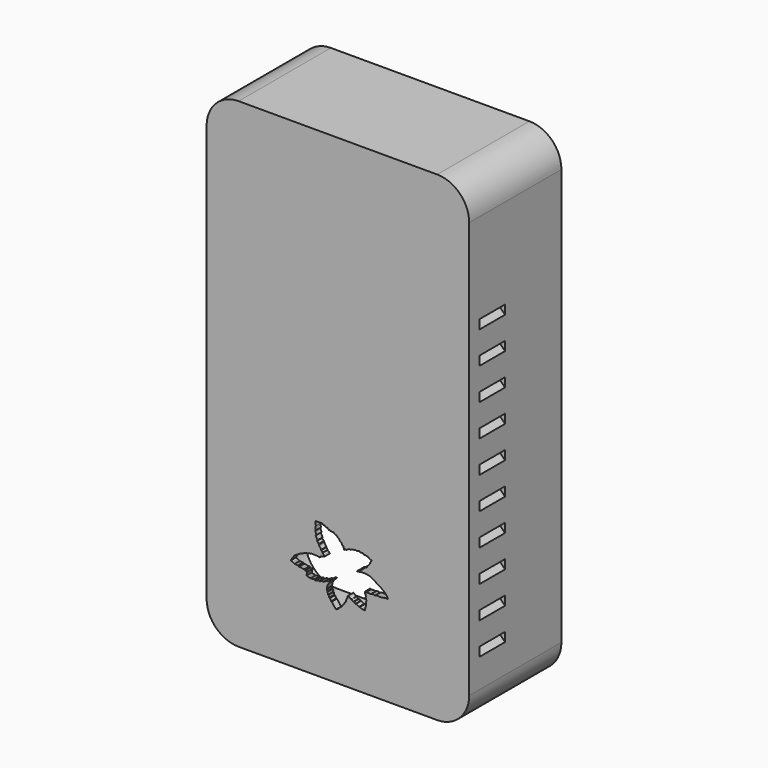
from build123d import *

# Parameters (mm, degrees)
BOX067_W                    = 35
BOX067_H                    = 1.8
BOX067_DEPTH                = 30
PAD_DEPTH                   = 3
BODY_PLACEMENT_ANGLE        = 90
BOX057_W                    = 20
BOX057_H                    = 10
BOX057_DEPTH                = 2
BOX057_PLACEMENT_ANGLE      = 45
BOX058_W                    = 20
BOX058_H                    = 10
BOX058_DEPTH                = 2
BOX058_PLACEMENT_ANGLE      = 45
BOX059_W                    = 20
BOX059_H                    = 10
BOX059_DEPTH                = 2
BOX059_PLACEMENT_ANGLE      = 45
BOX060_W                    = 10
BOX060_H                    = 10
BOX060_DEPTH                = 2
BOX060_PLACEMENT_ANGLE      = 45
BOX061_W                    = 20
BOX061_H                    = 10
BOX061_DEPTH                = 2
BOX061_PLACEMENT_ANGLE      = 45
BOX062_W                    = 20
BOX062_H                    = 10
BOX062_DEPTH                = 2
BOX062_PLACEMENT_ANGLE      = 45
BOX063_W                    = 20
BOX063_H                    = 10
BOX063_DEPTH                = 2
BOX063_PLACEMENT_ANGLE      = 45
BOX064_W                    = 10
BOX064_H                    = 10
BOX064_DEPTH                = 2
BOX064_PLACEMENT_ANGLE      = 45
BOX065_W                    = 20
BOX065_H                    = 10
BOX065_DEPTH                = 2
BOX065_PLACEMENT_ANGLE      = 45
BOX066_W                    = 20
BOX066_H                    = 10
BOX066_DEPTH                = 2
BOX066_PLACEMENT_ANGLE      = 45
BOX056_W                    = 20
BOX056_H                    = 10
BOX056_DEPTH                = 2
BOX056_PLACEMENT_ANGLE      = 45
FUSION037_PLACEMENT_ANGLE   = 180
BOX046_W                    = 20
BOX046_H                    = 10
BOX046_DEPTH                = 2
BOX046_PLACEMENT_ANGLE      = 45
BOX047_W                    = 20
BOX047_H                    = 10
BOX047_DEPTH                = 2
BOX047_PLACEMENT_ANGLE      = 45
BOX048_W                    = 20
BOX048_H                    = 10
BOX048_DEPTH                = 2
BOX048_PLACEMENT_ANGLE      = 45
BOX049_W                    = 10
BOX049_H                    = 10
BOX049_DEPTH                = 2
BOX049_PLACEMENT_ANGLE      = 45
BOX050_W                    = 20
BOX050_H                    = 10
BOX050_DEPTH                = 2
BOX050_PLACEMENT_ANGLE      = 45
BOX051_W                    = 20
BOX051_H                    = 10
BOX051_DEPTH                = 2
BOX051_PLACEMENT_ANGLE      = 45
BOX052_W                    = 20
BOX052_H                    = 10
BOX052_DEPTH                = 2
BOX052_PLACEMENT_ANGLE      = 45
BOX053_W                    = 20
BOX053_H                    = 10
BOX053_DEPTH                = 2
BOX053_PLACEMENT_ANGLE      = 45
BOX054_W                    = 20
BOX054_H                    = 10
BOX054_DEPTH                = 2
BOX054_PLACEMENT_ANGLE      = 45
BOX055_W                    = 20
BOX055_H                    = 10
BOX055_DEPTH                = 2
BOX055_PLACEMENT_ANGLE      = 45
BOX045_W                    = 20
BOX045_H                    = 10
BOX045_DEPTH                = 2
BOX045_PLACEMENT_ANGLE      = 45
BOX043_W                    = 5
BOX043_H                    = 5
BOX043_DEPTH                = 5
CYLINDER081_R               = 1.6
CYLINDER081_DEPTH           = 12
CYLINDER080_R               = 3.5
CYLINDER080_DEPTH           = 12
CYLINDER075_R               = 2.8
CYLINDER075_DEPTH           = 10
CYLINDER074_R               = 5.5
CYLINDER074_DEPTH           = 22
CYLINDER074_ROLL_ANGLE      = 90.312904
CYLINDER074_PITCH_ANGLE     = -60.355913
CYLINDER074_PLACEMENT_ANGLE = 179.461903
CYLINDER077_R               = 2.8
CYLINDER077_DEPTH           = 10
CYLINDER076_R               = 5.5
CYLINDER076_DEPTH           = 22
CYLINDER076_ROLL_ANGLE      = 90
CYLINDER076_PITCH_ANGLE     = -60
CYLINDER076_PLACEMENT_ANGLE = -180
CYLINDER079_R               = 2.8
CYLINDER079_DEPTH           = 10
CYLINDER078_R               = 5.5
CYLINDER078_DEPTH           = 22
CYLINDER078_ROLL_ANGLE      = 90
CYLINDER078_PITCH_ANGLE     = -60
CYLINDER078_PLACEMENT_ANGLE = -180
CYLINDER054_R               = 1.6
CYLINDER054_DEPTH           = 12
CYLINDER055_R               = 1.6
CYLINDER055_DEPTH           = 12
CYLINDER056_R               = 1.6
CYLINDER056_DEPTH           = 12
CYLINDER057_R               = 1.6
CYLINDER057_DEPTH           = 12
CYLINDER058_R               = 1.6
CYLINDER058_DEPTH           = 12
CYLINDER059_R               = 1.6
CYLINDER059_DEPTH           = 12
CYLINDER060_R               = 1.6
CYLINDER060_DEPTH           = 12
CYLINDER061_R               = 1.6
CYLINDER061_DEPTH           = 12
CYLINDER062_R               = 3.5
CYLINDER062_DEPTH           = 12
CYLINDER063_R               = 3.5
CYLINDER063_DEPTH           = 12
CYLINDER064_R               = 3.5
CYLINDER064_DEPTH           = 12
CYLINDER065_R               = 3.5
CYLINDER065_DEPTH           = 12
CYLINDER066_R               = 3.5
CYLINDER066_DEPTH           = 12
CYLINDER067_R               = 3.5
CYLINDER067_DEPTH           = 12
CYLINDER068_R               = 3.5
CYLINDER068_DEPTH           = 12
CYLINDER051_R               = 1.57
CYLINDER051_DEPTH           = 6
CYLINDER050_R               = 5.3
CYLINDER050_DEPTH           = 6
CYLINDER052_W               = 5.3
CYLINDER052_H               = 6
CYLINDER052_ANGLE           = 270
CYLINDER053_W               = 5.3
CYLINDER053_H               = 6
CYLINDER053_ANGLE           = 270
CYLINDER045_W               = 10
CYLINDER045_H               = 34
CYLINDER045_ANGLE           = 90
BOX035_W                    = 10
BOX035_H                    = 34
BOX035_DEPTH                = 10
CUT031_PLACEMENT_ANGLE      = 180
CYLINDER046_W               = 10
CYLINDER046_H               = 34
CYLINDER046_ANGLE           = 90
BOX036_W                    = 10
BOX036_H                    = 34
BOX036_DEPTH                = 10
CUT032_PLACEMENT_ANGLE      = 180
CYLINDER047_W               = 10
CYLINDER047_H               = 34
CYLINDER047_ANGLE           = 90
BOX037_W                    = 10
BOX037_H                    = 34
BOX037_DEPTH                = 10
CUT033_PITCH_ANGLE          = -90
CUT033_PLACEMENT_ANGLE      = -180
CYLINDER044_W               = 10
CYLINDER044_H               = 34
CYLINDER044_ANGLE           = 90
BOX033_W                    = 10
BOX033_H                    = 34
BOX033_DEPTH                = 10
CUT030_PITCH_ANGLE          = 90
CUT030_PLACEMENT_ANGLE      = -180
BOX034_W                    = 78
BOX034_H                    = 34
BOX034_DEPTH                = 146
CYLINDER041_W               = 10
CYLINDER041_H               = 36
CYLINDER041_ANGLE           = 90
BOX030_W                    = 10
BOX030_H                    = 36
BOX030_DEPTH                = 10
CUT026_PLACEMENT_ANGLE      = 180
CYLINDER042_W               = 10
CYLINDER042_H               = 36
CYLINDER042_ANGLE           = 90
BOX031_W                    = 10
BOX031_H                    = 36
BOX031_DEPTH                = 10
CUT027_PLACEMENT_ANGLE      = 180
CYLINDER043_W               = 10
CYLINDER043_H               = 36
CYLINDER043_ANGLE           = 90
BOX032_W                    = 10
BOX032_H                    = 36
BOX032_DEPTH                = 10
CUT028_PITCH_ANGLE          = -90
CUT028_PLACEMENT_ANGLE      = -180
CYLINDER040_W               = 10
CYLINDER040_H               = 36
CYLINDER040_ANGLE           = 90
BOX028_W                    = 10
BOX028_H                    = 36
BOX028_DEPTH                = 10
CUT025_PITCH_ANGLE          = 90
CUT025_PLACEMENT_ANGLE      = -180
BOX029_W                    = 82
BOX029_H                    = 36
BOX029_DEPTH                = 150
CUT035_PLACEMENT_ANGLE      = 180
CYLINDER048_R               = 1.57
CYLINDER048_DEPTH           = 6
CYLINDER049_R               = 5.3
CYLINDER049_DEPTH           = 6
CYLINDER069_R               = 3.5
CYLINDER069_DEPTH           = 12
CYLINDER073_R               = 2.8
CYLINDER073_DEPTH           = 10
CYLINDER072_R               = 5.5
CYLINDER072_DEPTH           = 22
CYLINDER072_ROLL_ANGLE      = 90
CYLINDER072_PITCH_ANGLE     = -60
CYLINDER072_PLACEMENT_ANGLE = -180


with BuildPart() as logobase:
    # Box067 → Box067 (new body)
    with BuildSketch(Plane(origin=(21.5, -44, 15.25), x_dir=(1, 0, 0), z_dir=(0, 0, 1))):
        with Locations((17.5, 0.9)):
            Rectangle(BOX067_W, BOX067_H)
    extrude(amount=BOX067_DEPTH)


with BuildPart() as logo001:
    # Sketch → Pad (new body)
    with BuildSketch(Plane.XY):
        Polygon((-15.066747, -2.987899), (-14.417461, -3.201938), (-14.138643, -3.358095), (-13.867326, -3.550643), (-13.410691, -3.571363), (-13.132099, -3.616994), (-12.816981, -3.623429), (-12.466181, -3.85302), (-11.870388, -3.85302), (-11.520385, -4.008358), (-11.138921, -4.05555), (-10.80982, -4.007881), (-10.571555, -4.299093), (-10.133842, -4.331365), (-9.89036, -4.3898), (-9.995555, -4.876968), (-10.089424, -5.363912), (-10.107024, -5.504714), (-9.778484, -5.639651), (-9.516561, -5.730218), (-9.249311, -5.762288), (-8.928614, -5.901257), (-8.543776, -5.863842), (-7.717882, -5.75845), (-7.372913, -5.972569), (-6.724874, -5.720376), (-6.270657, -5.694814), (-6.062229, -5.804927), (-5.350893, -5.48914), (-5.024015, -5.48914), (-4.801264, -5.531317), (-4.197354, -5.162479), (-3.751908, -4.972515), (-3.377141, -4.972515), (-2.818976, -4.454219), (-2.627606, -4.342587), (-2.151123, -4.357646), (-2.380419, -4.518009), (-3.185771, -5.42702), (-3.613178, -6.058241), (-3.711104, -6.645795), (-3.835143, -7.155008), (-3.758777, -7.508761), (-3.705962, -7.68135), (-3.53967, -7.852018), (-3.468499, -8.65617), (-3.272681, -8.566711), (-3.168228, -8.769092), (-3.070875, -9.320832), (-2.842071, -9.3355), (-2.45193, -10.098182), (-2.249525, -10.130449), (-0.96042, -11.875302), (-0.153326, -11.388908), (0.461347, -10.768889), (0.669802, -10.72613), (1.317242, -9.709977), (1.518256, -9.650808), (1.740221, -9.089367), (2.020942, -9.043669), (2.393061, -7.803274), (2.588394, -7.698711), (2.654196, -7.039452), (2.869633, -6.817487), (3.091598, -6.928469), (3.796664, -7.57478), (3.933761, -7.502968), (4.462561, -7.973012), (4.684525, -7.920785), (5.115399, -8.34513), (5.324308, -8.286375), (6.23668, -8.795643), (6.503619, -8.766309), (7.148016, -9.05537), (8.048827, -9.186133), (8.36847, -7.936621), (8.499233, -7.791329), (8.434769, -6.722055), (8.586207, -6.479883), (8.322964, -5.531781), (8.439835, -5.190909), (8.074257, -4.393068), (8.042361, -4.177775), (8.090203, -3.994378), (8.410305, -4.111031), (8.720134, -4.050195), (9.318169, -4.050195), (9.829643, -4.158874), (10.132648, -3.967503), (10.517489, -3.962302), (10.88308, -3.975359), (11.224485, -4.094309), (11.686072, -3.910075), (12.103889, -3.883962), (12.600047, -3.962302), (13.579306, -3.877433), (14.388827, -3.746865), (14.754416, -3.681581), (15.276689, -3.753394), (15.04319, -3.241373), (14.520919, -2.516721), (14.037817, -1.994449), (13.280153, -1.546255), (13.043842, -1.231174), (12.107354, -0.797939), (11.380431, -0.250878), (10.439567, 0.304889), (9.595256, 0.727998), (8.536237, 0.97306), (7.198999, 0.97306), (5.779317, 0.795578), (5.601857, 0.795578), (5.831776, 0.981815), (6.254031, 1.158201), (6.302136, 1.382691), (7.179873, 1.706855), (7.446816, 1.794377), (7.490577, 2.126962), (8.300576, 2.668386), (8.685751, 2.818538), (8.685751, 3.125373), (8.89508, 3.18684), (9.634921, 4.066021), (9.626381, 4.327431), (10.206841, 5.183136), (9.255181, 5.644445), (9.110202, 5.875968), (8.321324, 5.973361), (8.154661, 6.066253), (7.828613, 6.044872), (7.634715, 6.130877), (7.563913, 6.332674), (6.748318, 6.354958), (6.468188, 6.295259), (6.270422, 6.610614), (5.404532, 6.332674), (5.270907, 6.471644), (4.569418, 6.247245), (4.441608, 6.406517), (3.419502, 5.945882), (3.291921, 6.153201), (2.15964, 5.491375), (2.000163, 5.698694), (1.618501, 5.348278), (1.459844, 5.949736), (1.381651, 6.286506), (1.14534, 6.299634), (0.824344, 6.914785), (0.348522, 7.295443), (0.126706, 7.681261), (-0.415308, 8.181635), (-0.872658, 8.623701), (-1.120738, 8.643287), (-1.793164, 9.119861), (-2.314879, 9.121219), (-2.713213, 9.138457), (-2.884254, 9.341568), (-3.167788, 9.264536), (-3.707386, 9.827964), (-4.049155, 9.7003), (-4.429878, 10.011006), (-4.979099, 10.142511), (-5.430383, 10.448871), (-5.989475, 10.365602), (-7.326053, 10.410839), (-7.252544, 9.132535), (-7.368778, 8.769302), (-7.261404, 7.837619), (-7.411118, 7.604196), (-7.092165, 6.743021), (-7.100138, 6.559623), (-7.29151, 6.384199), (-6.741315, 5.299757), (-6.87495, 5.027319), (-6.315858, 4.420645), (-6.303963, 4.194629), (-6.054155, 4.0043), (-6.185007, 3.956717), (-5.542647, 3.076445), (-5.578333, 2.909907), (-5.126302, 2.410293), (-5.185779, 2.267546), (-4.733747, 1.898783), (-4.424462, 1.589498), (-5.31663, 1.292109), (-5.840036, 1.089884), (-6.04226, 0.792495), (-6.946324, 0.994719), (-7.196131, 0.887659), (-7.814701, 1.042302), (-8.02502, 0.969153), (-8.602671, 1.030419), (-8.834605, 0.872878), (-9.333486, 0.929767), (-9.661695, 0.649695), (-10.324935, 0.649695), (-11.010686, 0.32425), (-11.728333, 0.053139), (-12.297134, -0.13161), (-12.421175, -0.347049), (-13.295985, -0.817096), (-13.922715, -1.241445), (-14.170795, -1.59398), (-14.53862, -2.09216), (-14.783051, -2.457701), align=None)
    extrude(amount=PAD_DEPTH)


with BuildPart() as logo001_1:
    # Body placement: moved
    add(logo001.part.moved(Location((39.35, -43, 30))).rotate(Axis((39.35, -43, 30), (1, 0, 0)), BODY_PLACEMENT_ANGLE))

    # Fusion039: union logoBase
    add(logobase.part)


with BuildPart() as cube048:
    # Box057 → Box057 (new body)
    with BuildSketch(Plane.XY):
        with Locations((10, 5)):
            Rectangle(BOX057_W, BOX057_H)
    extrude(amount=BOX057_DEPTH)


with BuildPart() as cube048_1:
    # Box057 placement: moved
    add(cube048.part.moved(Location((0, 0, 10))).rotate(Axis((0, 0, 10), (0, -1, 0)), BOX057_PLACEMENT_ANGLE))


with BuildPart() as cube049:
    # Box058 → Box058 (new body)
    with BuildSketch(Plane.XY):
        with Locations((10, 5)):
            Rectangle(BOX058_W, BOX058_H)
    extrude(amount=BOX058_DEPTH)


with BuildPart() as cube049_1:
    # Box058 placement: moved
    add(cube049.part.moved(Location((0, 0, 20))).rotate(Axis((0, 0, 20), (0, -1, 0)), BOX058_PLACEMENT_ANGLE))


with BuildPart() as cube050:
    # Box059 → Box059 (new body)
    with BuildSketch(Plane.XY):
        with Locations((10, 5)):
            Rectangle(BOX059_W, BOX059_H)
    extrude(amount=BOX059_DEPTH)


with BuildPart() as cube050_1:
    # Box059 placement: moved
    add(cube050.part.moved(Location((0, 0, 30))).rotate(Axis((0, 0, 30), (0, -1, 0)), BOX059_PLACEMENT_ANGLE))


with BuildPart() as cube051:
    # Box060 → Box060 (new body)
    with BuildSketch(Plane.XY):
        with Locations((5, 5)):
            Rectangle(BOX060_W, BOX060_H)
    extrude(amount=BOX060_DEPTH)


with BuildPart() as cube051_1:
    # Box060 placement: moved
    add(cube051.part.moved(Location((0, 0, 40))).rotate(Axis((0, 0, 40), (0, -1, 0)), BOX060_PLACEMENT_ANGLE))


with BuildPart() as cube052:
    # Box061 → Box061 (new body)
    with BuildSketch(Plane.XY):
        with Locations((10, 5)):
            Rectangle(BOX061_W, BOX061_H)
    extrude(amount=BOX061_DEPTH)


with BuildPart() as cube052_1:
    # Box061 placement: moved
    add(cube052.part.moved(Location((0, 0, 50))).rotate(Axis((0, 0, 50), (0, -1, 0)), BOX061_PLACEMENT_ANGLE))


with BuildPart() as cube053:
    # Box062 → Box062 (new body)
    with BuildSketch(Plane.XY):
        with Locations((10, 5)):
            Rectangle(BOX062_W, BOX062_H)
    extrude(amount=BOX062_DEPTH)


with BuildPart() as cube053_1:
    # Box062 placement: moved
    add(cube053.part.moved(Location((0, 0, 60))).rotate(Axis((0, 0, 60), (0, -1, 0)), BOX062_PLACEMENT_ANGLE))


with BuildPart() as cube054:
    # Box063 → Box063 (new body)
    with BuildSketch(Plane.XY):
        with Locations((10, 5)):
            Rectangle(BOX063_W, BOX063_H)
    extrude(amount=BOX063_DEPTH)


with BuildPart() as cube054_1:
    # Box063 placement: moved
    add(cube054.part.moved(Location((0, 0, 70))).rotate(Axis((0, 0, 70), (0, -1, 0)), BOX063_PLACEMENT_ANGLE))


with BuildPart() as cube055:
    # Box064 → Box064 (new body)
    with BuildSketch(Plane.XY):
        with Locations((5, 5)):
            Rectangle(BOX064_W, BOX064_H)
    extrude(amount=BOX064_DEPTH)


with BuildPart() as cube055_1:
    # Box064 placement: moved
    add(cube055.part.moved(Location((0, 0, 80))).rotate(Axis((0, 0, 80), (0, -1, 0)), BOX064_PLACEMENT_ANGLE))


with BuildPart() as cube056:
    # Box065 → Box065 (new body)
    with BuildSketch(Plane.XY):
        with Locations((10, 5)):
            Rectangle(BOX065_W, BOX065_H)
    extrude(amount=BOX065_DEPTH)


with BuildPart() as cube056_1:
    # Box065 placement: moved
    add(cube056.part.moved(Location((0, 0, 90))).rotate(Axis((0, 0, 90), (0, -1, 0)), BOX065_PLACEMENT_ANGLE))


with BuildPart() as cube057:
    # Box066 → Box066 (new body)
    with BuildSketch(Plane.XY):
        with Locations((10, 5)):
            Rectangle(BOX066_W, BOX066_H)
    extrude(amount=BOX066_DEPTH)


with BuildPart() as cube057_1:
    # Box066 placement: moved
    add(cube057.part.moved(Location((0, 0, 1000))).rotate(Axis((0, 0, 1000), (0, -1, 0)), BOX066_PLACEMENT_ANGLE))


with BuildPart() as fusion037:
    # Box056 → Box056 (new body)
    with BuildSketch(Plane.XY):
        with Locations((10, 5)):
            Rectangle(BOX056_W, BOX056_H)
    extrude(amount=BOX056_DEPTH)


with BuildPart() as fusion037_1:
    # Box056 placement: moved
    add(fusion037.part.rotate(Axis((0, 0, 0), (0, -1, 0)), BOX056_PLACEMENT_ANGLE))

    # Fusion037: union Cube048, Cube049, Cube050, Cube051, Cube052, Cube053, Cube054, Cube055, Cube056, Cube057
    add(cube048_1.part)
    add(cube049_1.part)
    add(cube050_1.part)
    add(cube051_1.part)
    add(cube052_1.part)
    add(cube053_1.part)
    add(cube054_1.part)
    add(cube055_1.part)
    add(cube056_1.part)
    add(cube057_1.part)


with BuildPart() as fusion037_2:
    # Fusion037 placement: moved
    add(fusion037_1.part.moved(Location((82, 0, 15))).rotate(Axis((82, 0, 15), (0, 0, 1)), FUSION037_PLACEMENT_ANGLE))


with BuildPart() as cube037:
    # Box046 → Box046 (new body)
    with BuildSketch(Plane.XY):
        with Locations((10, 5)):
            Rectangle(BOX046_W, BOX046_H)
    extrude(amount=BOX046_DEPTH)


with BuildPart() as cube037_1:
    # Box046 placement: moved
    add(cube037.part.moved(Location((0, 0, 10))).rotate(Axis((0, 0, 10), (0, -1, 0)), BOX046_PLACEMENT_ANGLE))


with BuildPart() as cube038:
    # Box047 → Box047 (new body)
    with BuildSketch(Plane.XY):
        with Locations((10, 5)):
            Rectangle(BOX047_W, BOX047_H)
    extrude(amount=BOX047_DEPTH)


with BuildPart() as cube038_1:
    # Box047 placement: moved
    add(cube038.part.moved(Location((0, 0, 20))).rotate(Axis((0, 0, 20), (0, -1, 0)), BOX047_PLACEMENT_ANGLE))


with BuildPart() as cube039:
    # Box048 → Box048 (new body)
    with BuildSketch(Plane.XY):
        with Locations((10, 5)):
            Rectangle(BOX048_W, BOX048_H)
    extrude(amount=BOX048_DEPTH)


with BuildPart() as cube039_1:
    # Box048 placement: moved
    add(cube039.part.moved(Location((0, 0, 30))).rotate(Axis((0, 0, 30), (0, -1, 0)), BOX048_PLACEMENT_ANGLE))


with BuildPart() as cube040:
    # Box049 → Box049 (new body)
    with BuildSketch(Plane.XY):
        with Locations((5, 5)):
            Rectangle(BOX049_W, BOX049_H)
    extrude(amount=BOX049_DEPTH)


with BuildPart() as cube040_1:
    # Box049 placement: moved
    add(cube040.part.moved(Location((0, 0, 40))).rotate(Axis((0, 0, 40), (0, -1, 0)), BOX049_PLACEMENT_ANGLE))


with BuildPart() as cube041:
    # Box050 → Box050 (new body)
    with BuildSketch(Plane.XY):
        with Locations((10, 5)):
            Rectangle(BOX050_W, BOX050_H)
    extrude(amount=BOX050_DEPTH)


with BuildPart() as cube041_1:
    # Box050 placement: moved
    add(cube041.part.moved(Location((0, 0, 50))).rotate(Axis((0, 0, 50), (0, -1, 0)), BOX050_PLACEMENT_ANGLE))


with BuildPart() as cube042:
    # Box051 → Box051 (new body)
    with BuildSketch(Plane.XY):
        with Locations((10, 5)):
            Rectangle(BOX051_W, BOX051_H)
    extrude(amount=BOX051_DEPTH)


with BuildPart() as cube042_1:
    # Box051 placement: moved
    add(cube042.part.moved(Location((0, 0, 60))).rotate(Axis((0, 0, 60), (0, -1, 0)), BOX051_PLACEMENT_ANGLE))


with BuildPart() as cube043:
    # Box052 → Box052 (new body)
    with BuildSketch(Plane.XY):
        with Locations((10, 5)):
            Rectangle(BOX052_W, BOX052_H)
    extrude(amount=BOX052_DEPTH)


with BuildPart() as cube043_1:
    # Box052 placement: moved
    add(cube043.part.moved(Location((0, 0, 70))).rotate(Axis((0, 0, 70), (0, -1, 0)), BOX052_PLACEMENT_ANGLE))


with BuildPart() as cube044:
    # Box053 → Box053 (new body)
    with BuildSketch(Plane.XY):
        with Locations((10, 5)):
            Rectangle(BOX053_W, BOX053_H)
    extrude(amount=BOX053_DEPTH)


with BuildPart() as cube044_1:
    # Box053 placement: moved
    add(cube044.part.moved(Location((0, 0, 80))).rotate(Axis((0, 0, 80), (0, -1, 0)), BOX053_PLACEMENT_ANGLE))


with BuildPart() as cube045:
    # Box054 → Box054 (new body)
    with BuildSketch(Plane.XY):
        with Locations((10, 5)):
            Rectangle(BOX054_W, BOX054_H)
    extrude(amount=BOX054_DEPTH)


with BuildPart() as cube045_1:
    # Box054 placement: moved
    add(cube045.part.moved(Location((0, 0, 90))).rotate(Axis((0, 0, 90), (0, -1, 0)), BOX054_PLACEMENT_ANGLE))


with BuildPart() as cube046:
    # Box055 → Box055 (new body)
    with BuildSketch(Plane.XY):
        with Locations((10, 5)):
            Rectangle(BOX055_W, BOX055_H)
    extrude(amount=BOX055_DEPTH)


with BuildPart() as cube046_1:
    # Box055 placement: moved
    add(cube046.part.moved(Location((0, 0, 1000))).rotate(Axis((0, 0, 1000), (0, -1, 0)), BOX055_PLACEMENT_ANGLE))


with BuildPart() as vents:
    # Box045 → Box045 (new body)
    with BuildSketch(Plane.XY):
        with Locations((10, 5)):
            Rectangle(BOX045_W, BOX045_H)
    extrude(amount=BOX045_DEPTH)


with BuildPart() as vents_1:
    # Box045 placement: moved
    add(vents.part.rotate(Axis((0, 0, 0), (0, -1, 0)), BOX045_PLACEMENT_ANGLE))

    # Fusion036: union Cube037, Cube038, Cube039, Cube040, Cube041, Cube042, Cube043, Cube044, Cube045, Cube046
    add(cube037_1.part)
    add(cube038_1.part)
    add(cube039_1.part)
    add(cube040_1.part)
    add(cube041_1.part)
    add(cube042_1.part)
    add(cube043_1.part)
    add(cube044_1.part)
    add(cube045_1.part)
    add(cube046_1.part)


with BuildPart() as vents_2:
    # Fusion036 placement: moved
    add(vents_1.part.moved(Location((-4, -10, 15))))

    # Fusion038: union Fusion037
    add(fusion037_2.part)


with BuildPart() as vents_3:
    # Fusion038 placement: moved
    add(vents_2.part.moved(Location((0, -32, 0))))


with BuildPart() as lightcut:
    # Box043 → Box043 (new body)
    with BuildSketch(Plane(origin=(54.5, -16, -6), x_dir=(1, 0, 0), z_dir=(0, 0, 1))):
        with Locations((2.5, 2.5)):
            Rectangle(BOX043_W, BOX043_H)
    extrude(amount=BOX043_DEPTH)


with BuildPart() as m2heatset009:
    # Cylinder081 → Cylinder081 (new body)
    with BuildSketch(Plane(origin=(8, -44, 67.1), x_dir=(1, 0, 0), z_dir=(0, 1, 0))):
        Circle(CYLINDER081_R)
    extrude(amount=CYLINDER081_DEPTH)


with BuildPart() as m2heatset010:
    # Cylinder080 → Cylinder080 (new body)
    with BuildSketch(Plane(origin=(8, -44, 67.1), x_dir=(1, 0, 0), z_dir=(0, 1, 0))):
        Circle(CYLINDER080_R)
    extrude(amount=CYLINDER080_DEPTH)

    # Cut043: cut m2HeatSet009
    add(m2heatset009.part, mode=Mode.SUBTRACT)


with BuildPart() as m4heatsetcut001:
    # Cylinder075 → Cylinder075 (new body)
    with BuildSketch(Plane(origin=(4.5, -32, 141.5), x_dir=(1, 0, 0), z_dir=(0, 1, 0))):
        Circle(CYLINDER075_R)
    extrude(amount=CYLINDER075_DEPTH)


with BuildPart() as m4heatsetholes001:
    # Cylinder074 → Cylinder074 (new body)
    with BuildSketch(Plane.XY):
        Circle(CYLINDER074_R)
    extrude(amount=CYLINDER074_DEPTH)


with BuildPart() as m4heatsetholes001_1:
    # Cylinder074 roll: moved
    add(m4heatsetholes001.part.rotate(Axis((0, 0, 0), (1, 0, 0)), CYLINDER074_ROLL_ANGLE))


with BuildPart() as m4heatsetholes001_2:
    # Cylinder074 pitch: moved
    add(m4heatsetholes001_1.part.rotate(Axis((0, 0, 0), (0, 1, 0)), CYLINDER074_PITCH_ANGLE))


with BuildPart() as m4heatsetholes001_3:
    # Cylinder074 placement: moved
    add(m4heatsetholes001_2.part.moved(Location((4.5, -44, 141.5))).rotate(Axis((4.5, -44, 141.5), (0, 0, 1)), CYLINDER074_PLACEMENT_ANGLE))

    # Cut040: cut m4HeatSetCut001
    add(m4heatsetcut001.part, mode=Mode.SUBTRACT)


with BuildPart() as m4heatsetholes001_4:
    # Cut040 placement: moved
    add(m4heatsetholes001_3.part.moved(Location((68.5, 0, -0.5))))


with BuildPart() as m4heatsetcut002:
    # Cylinder077 → Cylinder077 (new body)
    with BuildSketch(Plane(origin=(4.5, -32, 141.5), x_dir=(1, 0, 0), z_dir=(0, 1, 0))):
        Circle(CYLINDER077_R)
    extrude(amount=CYLINDER077_DEPTH)


with BuildPart() as m4heatsetholes002:
    # Cylinder076 → Cylinder076 (new body)
    with BuildSketch(Plane.XY):
        Circle(CYLINDER076_R)
    extrude(amount=CYLINDER076_DEPTH)


with BuildPart() as m4heatsetholes002_1:
    # Cylinder076 roll: moved
    add(m4heatsetholes002.part.rotate(Axis((0, 0, 0), (1, 0, 0)), CYLINDER076_ROLL_ANGLE))


with BuildPart() as m4heatsetholes002_2:
    # Cylinder076 pitch: moved
    add(m4heatsetholes002_1.part.rotate(Axis((0, 0, 0), (0, 1, 0)), CYLINDER076_PITCH_ANGLE))


with BuildPart() as m4heatsetholes002_3:
    # Cylinder076 placement: moved
    add(m4heatsetholes002_2.part.moved(Location((4.5, -44, 141.5))).rotate(Axis((4.5, -44, 141.5), (0, 0, 1)), CYLINDER076_PLACEMENT_ANGLE))

    # Cut041: cut m4HeatSetCut002
    add(m4heatsetcut002.part, mode=Mode.SUBTRACT)


with BuildPart() as m4heatsetholes002_4:
    # Cut041 placement: moved
    add(m4heatsetholes002_3.part.moved(Location((0.5, 0, -136.5))))


with BuildPart() as m4heatsetcut003:
    # Cylinder079 → Cylinder079 (new body)
    with BuildSketch(Plane(origin=(4.5, -32, 141.5), x_dir=(1, 0, 0), z_dir=(0, 1, 0))):
        Circle(CYLINDER079_R)
    extrude(amount=CYLINDER079_DEPTH)


with BuildPart() as m4heatsetholes003:
    # Cylinder078 → Cylinder078 (new body)
    with BuildSketch(Plane.XY):
        Circle(CYLINDER078_R)
    extrude(amount=CYLINDER078_DEPTH)


with BuildPart() as m4heatsetholes003_1:
    # Cylinder078 roll: moved
    add(m4heatsetholes003.part.rotate(Axis((0, 0, 0), (1, 0, 0)), CYLINDER078_ROLL_ANGLE))


with BuildPart() as m4heatsetholes003_2:
    # Cylinder078 pitch: moved
    add(m4heatsetholes003_1.part.rotate(Axis((0, 0, 0), (0, 1, 0)), CYLINDER078_PITCH_ANGLE))


with BuildPart() as m4heatsetholes003_3:
    # Cylinder078 placement: moved
    add(m4heatsetholes003_2.part.moved(Location((4.5, -44, 141.5))).rotate(Axis((4.5, -44, 141.5), (0, 0, 1)), CYLINDER078_PLACEMENT_ANGLE))

    # Cut042: cut m4HeatSetCut003
    add(m4heatsetcut003.part, mode=Mode.SUBTRACT)


with BuildPart() as m4heatsetholes003_4:
    # Cut042 placement: moved
    add(m4heatsetholes003_3.part.moved(Location((68.5, 0, -136.5))))


with BuildPart() as m2heatset001:
    # Cylinder054 → Cylinder054 (new body)
    with BuildSketch(Plane(origin=(8, -44, 67.1), x_dir=(1, 0, 0), z_dir=(0, 1, 0))):
        Circle(CYLINDER054_R)
    extrude(amount=CYLINDER054_DEPTH)


with BuildPart() as m2heatset002:
    # Cylinder055 → Cylinder055 (new body)
    with BuildSketch(Plane(origin=(28, -44, 67.1), x_dir=(1, 0, 0), z_dir=(0, 1, 0))):
        Circle(CYLINDER055_R)
    extrude(amount=CYLINDER055_DEPTH)


with BuildPart() as m2heatset003:
    # Cylinder056 → Cylinder056 (new body)
    with BuildSketch(Plane(origin=(68, -44, 67.1), x_dir=(1, 0, 0), z_dir=(0, 1, 0))):
        Circle(CYLINDER056_R)
    extrude(amount=CYLINDER056_DEPTH)


with BuildPart() as m2heatset004:
    # Cylinder057 → Cylinder057 (new body)
    with BuildSketch(Plane(origin=(18.2, -44, 97), x_dir=(1, 0, 0), z_dir=(0, 1, 0))):
        Circle(CYLINDER057_R)
    extrude(amount=CYLINDER057_DEPTH)


with BuildPart() as m2heatset005:
    # Cylinder058 → Cylinder058 (new body)
    with BuildSketch(Plane(origin=(28, -44, 87), x_dir=(1, 0, 0), z_dir=(0, 1, 0))):
        Circle(CYLINDER058_R)
    extrude(amount=CYLINDER058_DEPTH)


with BuildPart() as m2heatset006:
    # Cylinder059 → Cylinder059 (new body)
    with BuildSketch(Plane(origin=(38, -44, 117), x_dir=(1, 0, 0), z_dir=(0, 1, 0))):
        Circle(CYLINDER059_R)
    extrude(amount=CYLINDER059_DEPTH)


with BuildPart() as m2heatset007:
    # Cylinder060 → Cylinder060 (new body)
    with BuildSketch(Plane(origin=(38, -44, 57), x_dir=(1, 0, 0), z_dir=(0, 1, 0))):
        Circle(CYLINDER060_R)
    extrude(amount=CYLINDER060_DEPTH)


with BuildPart() as m2heatset008:
    # Cylinder061 → Cylinder061 (new body)
    with BuildSketch(Plane(origin=(68, -44, 107), x_dir=(1, 0, 0), z_dir=(0, 1, 0))):
        Circle(CYLINDER061_R)
    extrude(amount=CYLINDER061_DEPTH)


with BuildPart() as m2heatsetcuts:
    # Cylinder062 → Cylinder062 (new body)
    with BuildSketch(Plane(origin=(8, -44, 67.1), x_dir=(1, 0, 0), z_dir=(0, 1, 0))):
        Circle(CYLINDER062_R)
    extrude(amount=CYLINDER062_DEPTH)

    # Fusion021: union m2HeatSet001, m2HeatSet002, m2HeatSet003, m2HeatSet004, m2HeatSet005, m2HeatSet006, m2HeatSet007, m2HeatSet008
    add(m2heatset001.part)
    add(m2heatset002.part)
    add(m2heatset003.part)
    add(m2heatset004.part)
    add(m2heatset005.part)
    add(m2heatset006.part)
    add(m2heatset007.part)
    add(m2heatset008.part)


with BuildPart() as obj1:
    # Cylinder063 → Cylinder063 (new body)
    with BuildSketch(Plane(origin=(28, -44, 67.1), x_dir=(1, 0, 0), z_dir=(0, 1, 0))):
        Circle(CYLINDER063_R)
    extrude(amount=CYLINDER063_DEPTH)


with BuildPart() as obj2:
    # Cylinder064 → Cylinder064 (new body)
    with BuildSketch(Plane(origin=(18.2, -44, 97), x_dir=(1, 0, 0), z_dir=(0, 1, 0))):
        Circle(CYLINDER064_R)
    extrude(amount=CYLINDER064_DEPTH)


with BuildPart() as obj3:
    # Cylinder065 → Cylinder065 (new body)
    with BuildSketch(Plane(origin=(68, -44, 67.1), x_dir=(1, 0, 0), z_dir=(0, 1, 0))):
        Circle(CYLINDER065_R)
    extrude(amount=CYLINDER065_DEPTH)


with BuildPart() as obj4:
    # Cylinder066 → Cylinder066 (new body)
    with BuildSketch(Plane(origin=(28, -44, 87), x_dir=(1, 0, 0), z_dir=(0, 1, 0))):
        Circle(CYLINDER066_R)
    extrude(amount=CYLINDER066_DEPTH)


with BuildPart() as obj5:
    # Cylinder067 → Cylinder067 (new body)
    with BuildSketch(Plane(origin=(38, -44, 57), x_dir=(1, 0, 0), z_dir=(0, 1, 0))):
        Circle(CYLINDER067_R)
    extrude(amount=CYLINDER067_DEPTH)


with BuildPart() as obj6:
    # Cylinder068 → Cylinder068 (new body)
    with BuildSketch(Plane(origin=(68, -44, 107), x_dir=(1, 0, 0), z_dir=(0, 1, 0))):
        Circle(CYLINDER068_R)
    extrude(amount=CYLINDER068_DEPTH)


with BuildPart() as cylinder051:
    # Cylinder051 → Cylinder051 (new body)
    with BuildSketch(Plane(origin=(59.6, -44, 48.15), x_dir=(1, 0, 0), z_dir=(0, 1, 0))):
        Circle(CYLINDER051_R)
    extrude(amount=CYLINDER051_DEPTH)


with BuildPart() as cut037:
    # Cylinder050 → Cylinder050 (new body)
    with BuildSketch(Plane(origin=(62.1, -44, 50.65), x_dir=(0, 0, -1), z_dir=(0, 1, 0))):
        Circle(CYLINDER050_R)
    extrude(amount=CYLINDER050_DEPTH)

    # Cut037: cut Cylinder051
    add(cylinder051.part, mode=Mode.SUBTRACT)


with BuildPart() as cylinder052:
    # Cylinder052 → Cylinder052 (revolve)
    with BuildSketch(Plane(origin=(15, -38, 7.55), x_dir=(1, 0, 0), z_dir=(0, 0, 1))):
        with Locations((2.65, 3)):
            Rectangle(CYLINDER052_W, CYLINDER052_H)
    revolve(axis=Axis((15, -38, 7.55), (0, 1, 0)), revolution_arc=CYLINDER052_ANGLE)


with BuildPart() as cylinder053:
    # Cylinder053 → Cylinder053 (revolve)
    with BuildSketch(Plane(origin=(62.1, -38, 50.65), x_dir=(-1, 0, 0), z_dir=(0, 0, -1))):
        with Locations((2.65, 3)):
            Rectangle(CYLINDER053_W, CYLINDER053_H)
    revolve(axis=Axis((62.1, -38, 50.65), (0, 1, 0)), revolution_arc=CYLINDER053_ANGLE)


with BuildPart() as cylinder045:
    # Cylinder045 → Cylinder045 (revolve)
    with BuildSketch(Plane(origin=(0, 26, 0), x_dir=(1, 0, 0), z_dir=(0, 0, -1))):
        with Locations((5, 17)):
            Rectangle(CYLINDER045_W, CYLINDER045_H)
    revolve(axis=Axis((0, 26, 0), (0, -1, 0)), revolution_arc=CYLINDER045_ANGLE)


with BuildPart() as cut031:
    # Box035 → Box035 (new body)
    with BuildSketch(Plane(origin=(0, -8, 0), x_dir=(1, 0, 0), z_dir=(0, 0, 1))):
        with Locations((5, 17)):
            Rectangle(BOX035_W, BOX035_H)
    extrude(amount=BOX035_DEPTH)

    # Cut031: cut Cylinder045
    add(cylinder045.part, mode=Mode.SUBTRACT)


with BuildPart() as cut031_1:
    # Cut031 placement: moved
    add(cut031.part.moved(Location((70, 18, 8))).rotate(Axis((70, 18, 8), (1, 0, 0)), CUT031_PLACEMENT_ANGLE))


with BuildPart() as cylinder046:
    # Cylinder046 → Cylinder046 (revolve)
    with BuildSketch(Plane(origin=(0, 26, 0), x_dir=(1, 0, 0), z_dir=(0, 0, -1))):
        with Locations((5, 17)):
            Rectangle(CYLINDER046_W, CYLINDER046_H)
    revolve(axis=Axis((0, 26, 0), (0, -1, 0)), revolution_arc=CYLINDER046_ANGLE)


with BuildPart() as cut032:
    # Box036 → Box036 (new body)
    with BuildSketch(Plane(origin=(0, -8, 0), x_dir=(1, 0, 0), z_dir=(0, 0, 1))):
        with Locations((5, 17)):
            Rectangle(BOX036_W, BOX036_H)
    extrude(amount=BOX036_DEPTH)

    # Cut032: cut Cylinder046
    add(cylinder046.part, mode=Mode.SUBTRACT)


with BuildPart() as cut032_1:
    # Cut032 placement: moved
    add(cut032.part.moved(Location((12, 18, 134))).rotate(Axis((12, 18, 134), (0, 0, 1)), CUT032_PLACEMENT_ANGLE))


with BuildPart() as cylinder047:
    # Cylinder047 → Cylinder047 (revolve)
    with BuildSketch(Plane(origin=(0, 26, 0), x_dir=(1, 0, 0), z_dir=(0, 0, -1))):
        with Locations((5, 17)):
            Rectangle(CYLINDER047_W, CYLINDER047_H)
    revolve(axis=Axis((0, 26, 0), (0, -1, 0)), revolution_arc=CYLINDER047_ANGLE)


with BuildPart() as cut033:
    # Box037 → Box037 (new body)
    with BuildSketch(Plane(origin=(0, -8, 0), x_dir=(1, 0, 0), z_dir=(0, 0, 1))):
        with Locations((5, 17)):
            Rectangle(BOX037_W, BOX037_H)
    extrude(amount=BOX037_DEPTH)

    # Cut033: cut Cylinder047
    add(cylinder047.part, mode=Mode.SUBTRACT)


with BuildPart() as cut033_1:
    # Cut033 pitch: moved
    add(cut033.part.rotate(Axis((0, 0, 0), (0, 1, 0)), CUT033_PITCH_ANGLE))


with BuildPart() as cut033_2:
    # Cut033 placement: moved
    add(cut033_1.part.moved(Location((70, 18, 134))).rotate(Axis((70, 18, 134), (0, 0, 1)), CUT033_PLACEMENT_ANGLE))


with BuildPart() as cylinder044:
    # Cylinder044 → Cylinder044 (revolve)
    with BuildSketch(Plane(origin=(0, 26, 0), x_dir=(1, 0, 0), z_dir=(0, 0, -1))):
        with Locations((5, 17)):
            Rectangle(CYLINDER044_W, CYLINDER044_H)
    revolve(axis=Axis((0, 26, 0), (0, -1, 0)), revolution_arc=CYLINDER044_ANGLE)


with BuildPart() as fusion018:
    # Box033 → Box033 (new body)
    with BuildSketch(Plane(origin=(0, -8, 0), x_dir=(1, 0, 0), z_dir=(0, 0, 1))):
        with Locations((5, 17)):
            Rectangle(BOX033_W, BOX033_H)
    extrude(amount=BOX033_DEPTH)

    # Cut030: cut Cylinder044
    add(cylinder044.part, mode=Mode.SUBTRACT)


with BuildPart() as fusion018_1:
    # Cut030 pitch: moved
    add(fusion018.part.rotate(Axis((0, 0, 0), (0, 1, 0)), CUT030_PITCH_ANGLE))


with BuildPart() as fusion018_2:
    # Cut030 placement: moved
    add(fusion018_1.part.moved(Location((12, 18, 8))).rotate(Axis((12, 18, 8), (0, 0, 1)), CUT030_PLACEMENT_ANGLE))

    # Fusion018: union Cut031, Cut032, Cut033
    add(cut031_1.part)
    add(cut032_1.part)
    add(cut033_2.part)


with BuildPart() as obj7:
    # Box034 → Box034 (new body)
    with BuildSketch(Plane(origin=(80, 26, -2), x_dir=(-1, 0, 0), z_dir=(0, 0, 1))):
        with Locations((39, 17)):
            Rectangle(BOX034_W, BOX034_H)
    extrude(amount=BOX034_DEPTH)

    # Cut034: cut Fusion018
    add(fusion018_2.part, mode=Mode.SUBTRACT)


with BuildPart() as obj7_1:
    # Cut034 placement: moved
    add(obj7.part.moved(Location((-2, -2, 2))))


with BuildPart() as cylinder041:
    # Cylinder041 → Cylinder041 (revolve)
    with BuildSketch(Plane(origin=(0, 26, 0), x_dir=(1, 0, 0), z_dir=(0, 0, -1))):
        with Locations((5, 18)):
            Rectangle(CYLINDER041_W, CYLINDER041_H)
    revolve(axis=Axis((0, 26, 0), (0, -1, 0)), revolution_arc=CYLINDER041_ANGLE)


with BuildPart() as cut026:
    # Box030 → Box030 (new body)
    with BuildSketch(Plane(origin=(0, -10, 0), x_dir=(1, 0, 0), z_dir=(0, 0, 1))):
        with Locations((5, 18)):
            Rectangle(BOX030_W, BOX030_H)
    extrude(amount=BOX030_DEPTH)

    # Cut026: cut Cylinder041
    add(cylinder041.part, mode=Mode.SUBTRACT)


with BuildPart() as cut026_1:
    # Cut026 placement: moved
    add(cut026.part.moved(Location((70, 18, 8))).rotate(Axis((70, 18, 8), (1, 0, 0)), CUT026_PLACEMENT_ANGLE))


with BuildPart() as cylinder042:
    # Cylinder042 → Cylinder042 (revolve)
    with BuildSketch(Plane(origin=(0, 26, 0), x_dir=(1, 0, 0), z_dir=(0, 0, -1))):
        with Locations((5, 18)):
            Rectangle(CYLINDER042_W, CYLINDER042_H)
    revolve(axis=Axis((0, 26, 0), (0, -1, 0)), revolution_arc=CYLINDER042_ANGLE)


with BuildPart() as cut027:
    # Box031 → Box031 (new body)
    with BuildSketch(Plane(origin=(0, -10, 0), x_dir=(1, 0, 0), z_dir=(0, 0, 1))):
        with Locations((5, 18)):
            Rectangle(BOX031_W, BOX031_H)
    extrude(amount=BOX031_DEPTH)

    # Cut027: cut Cylinder042
    add(cylinder042.part, mode=Mode.SUBTRACT)


with BuildPart() as cut027_1:
    # Cut027 placement: moved
    add(cut027.part.moved(Location((8, 18, 138))).rotate(Axis((8, 18, 138), (0, 0, 1)), CUT027_PLACEMENT_ANGLE))


with BuildPart() as cylinder043:
    # Cylinder043 → Cylinder043 (revolve)
    with BuildSketch(Plane(origin=(0, 26, 0), x_dir=(1, 0, 0), z_dir=(0, 0, -1))):
        with Locations((5, 18)):
            Rectangle(CYLINDER043_W, CYLINDER043_H)
    revolve(axis=Axis((0, 26, 0), (0, -1, 0)), revolution_arc=CYLINDER043_ANGLE)


with BuildPart() as cut028:
    # Box032 → Box032 (new body)
    with BuildSketch(Plane(origin=(0, -10, 0), x_dir=(1, 0, 0), z_dir=(0, 0, 1))):
        with Locations((5, 18)):
            Rectangle(BOX032_W, BOX032_H)
    extrude(amount=BOX032_DEPTH)

    # Cut028: cut Cylinder043
    add(cylinder043.part, mode=Mode.SUBTRACT)


with BuildPart() as cut028_1:
    # Cut028 pitch: moved
    add(cut028.part.rotate(Axis((0, 0, 0), (0, 1, 0)), CUT028_PITCH_ANGLE))


with BuildPart() as cut028_2:
    # Cut028 placement: moved
    add(cut028_1.part.moved(Location((70, 18, 138))).rotate(Axis((70, 18, 138), (0, 0, 1)), CUT028_PLACEMENT_ANGLE))


with BuildPart() as cylinder040:
    # Cylinder040 → Cylinder040 (revolve)
    with BuildSketch(Plane(origin=(0, 26, 0), x_dir=(1, 0, 0), z_dir=(0, 0, -1))):
        with Locations((5, 18)):
            Rectangle(CYLINDER040_W, CYLINDER040_H)
    revolve(axis=Axis((0, 26, 0), (0, -1, 0)), revolution_arc=CYLINDER040_ANGLE)


with BuildPart() as fusion017:
    # Box028 → Box028 (new body)
    with BuildSketch(Plane(origin=(0, -10, 0), x_dir=(1, 0, 0), z_dir=(0, 0, 1))):
        with Locations((5, 18)):
            Rectangle(BOX028_W, BOX028_H)
    extrude(amount=BOX028_DEPTH)

    # Cut025: cut Cylinder040
    add(cylinder040.part, mode=Mode.SUBTRACT)


with BuildPart() as fusion017_1:
    # Cut025 pitch: moved
    add(fusion017.part.rotate(Axis((0, 0, 0), (0, 1, 0)), CUT025_PITCH_ANGLE))


with BuildPart() as fusion017_2:
    # Cut025 placement: moved
    add(fusion017_1.part.moved(Location((8, 18, 8))).rotate(Axis((8, 18, 8), (0, 0, 1)), CUT025_PLACEMENT_ANGLE))

    # Fusion017: union Cut026, Cut027, Cut028
    add(cut026_1.part)
    add(cut027_1.part)
    add(cut028_2.part)


with BuildPart() as fusion017_3:
    # Fusion017 placement: moved
    add(fusion017_2.part.moved(Location((0, -2, 0))))


with BuildPart() as basetop:
    # Box029 → Box029 (new body)
    with BuildSketch(Plane(origin=(80, 26, -2), x_dir=(-1, 0, 0), z_dir=(0, 0, 1))):
        with Locations((41, 18)):
            Rectangle(BOX029_W, BOX029_H)
    extrude(amount=BOX029_DEPTH)

    # Cut029: cut Fusion017
    add(fusion017_3.part, mode=Mode.SUBTRACT)

    # Cut035: cut obj7
    add(obj7_1.part, mode=Mode.SUBTRACT)


with BuildPart() as basetop_1:
    # Cut035 placement: moved
    add(basetop.part.moved(Location((78, -20, 0))).rotate(Axis((78, -20, 0), (0, 0, 1)), CUT035_PLACEMENT_ANGLE))


with BuildPart() as cylinder048:
    # Cylinder048 → Cylinder048 (new body)
    with BuildSketch(Plane(origin=(17.5, -44, 10.05), x_dir=(1, 0, 0), z_dir=(0, 1, 0))):
        Circle(CYLINDER048_R)
    extrude(amount=CYLINDER048_DEPTH)


with BuildPart() as basetop001:
    # Cylinder049 → Cylinder049 (new body)
    with BuildSketch(Plane(origin=(15, -44, 7.55), x_dir=(0, 0, 1), z_dir=(0, 1, 0))):
        Circle(CYLINDER049_R)
    extrude(amount=CYLINDER049_DEPTH)

    # Cut036: cut Cylinder048
    add(cylinder048.part, mode=Mode.SUBTRACT)

    # Fusion019: union Cut037, Cylinder052, Cylinder053, baseTop
    add(cut037.part)
    add(cylinder052.part)
    add(cylinder053.part)
    add(basetop_1.part)


with BuildPart() as basetop003:
    # Cylinder069 → Cylinder069 (new body)
    with BuildSketch(Plane(origin=(38, -44, 117), x_dir=(1, 0, 0), z_dir=(0, 1, 0))):
        Circle(CYLINDER069_R)
    extrude(amount=CYLINDER069_DEPTH)

    # Fusion020: union obj1, obj2, obj3, obj4, obj5, obj6, baseTop001
    add(obj1.part)
    add(obj2.part)
    add(obj3.part)
    add(obj4.part)
    add(obj5.part)
    add(obj6.part)
    add(basetop001.part)

    # Cut038: cut m2HeatSetCuts
    add(m2heatsetcuts.part, mode=Mode.SUBTRACT)


with BuildPart() as m4heatsetcut:
    # Cylinder073 → Cylinder073 (new body)
    with BuildSketch(Plane(origin=(4.5, -32, 141.5), x_dir=(1, 0, 0), z_dir=(0, 1, 0))):
        Circle(CYLINDER073_R)
    extrude(amount=CYLINDER073_DEPTH)


with BuildPart() as basetop008:
    # Cylinder072 → Cylinder072 (new body)
    with BuildSketch(Plane.XY):
        Circle(CYLINDER072_R)
    extrude(amount=CYLINDER072_DEPTH)


with BuildPart() as basetop008_1:
    # Cylinder072 roll: moved
    add(basetop008.part.rotate(Axis((0, 0, 0), (1, 0, 0)), CYLINDER072_ROLL_ANGLE))


with BuildPart() as basetop008_2:
    # Cylinder072 pitch: moved
    add(basetop008_1.part.rotate(Axis((0, 0, 0), (0, 1, 0)), CYLINDER072_PITCH_ANGLE))


with BuildPart() as basetop008_3:
    # Cylinder072 placement: moved
    add(basetop008_2.part.moved(Location((4.5, -44, 141.5))).rotate(Axis((4.5, -44, 141.5), (0, 0, 1)), CYLINDER072_PLACEMENT_ANGLE))

    # Cut039: cut m4HeatSetCut
    add(m4heatsetcut.part, mode=Mode.SUBTRACT)


with BuildPart() as basetop008_4:
    # Cut039 placement: moved
    add(basetop008_3.part.moved(Location((0.5, 0, -0.5))))

    # Fusion023: union m4HeatSetHoles001, m4HeatSetHoles002, m4HeatSetHoles003, baseTop003
    add(m4heatsetholes001_4.part)
    add(m4heatsetholes002_4.part)
    add(m4heatsetholes003_4.part)
    add(basetop003.part)

    # Fusion024: union m2HeatSet010
    add(m2heatset010.part)

    # Cut052: cut lightCut
    add(lightcut.part, mode=Mode.SUBTRACT)

    # Cut053: cut vents
    add(vents_3.part, mode=Mode.SUBTRACT)

    # Cut054: cut logo001
    add(logo001_1.part, mode=Mode.SUBTRACT)


solid = basetop008_4.part
